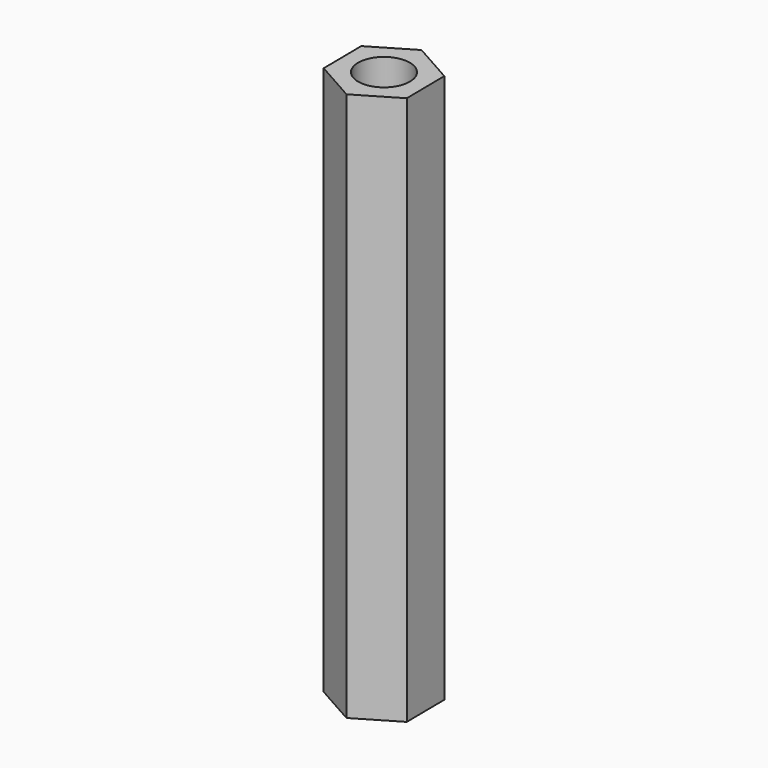
from build123d import *

# Parameters (mm, degrees)
F1_DEPTH = 50.8
F2_R     = 2.3876
F3_DEPTH = 50.8


with BuildPart() as f1:
    # F0 (on Top) → F1 (new body)
    with BuildSketch(Plane.XY):
        Polygon((3.786138, 2.240527), (-0.047285, 4.399155), (-3.833422, 2.158628), (-3.786138, -2.240527), (0.047285, -4.399155), (3.833422, -2.158628), align=None)
    extrude(amount=F1_DEPTH)

    # F2 (on face) → F3 (cut)
    with BuildSketch(Plane.XY.offset(50.8)):
        Circle(F2_R)
    extrude(amount=-F3_DEPTH, mode=Mode.SUBTRACT)


solid = f1.part
